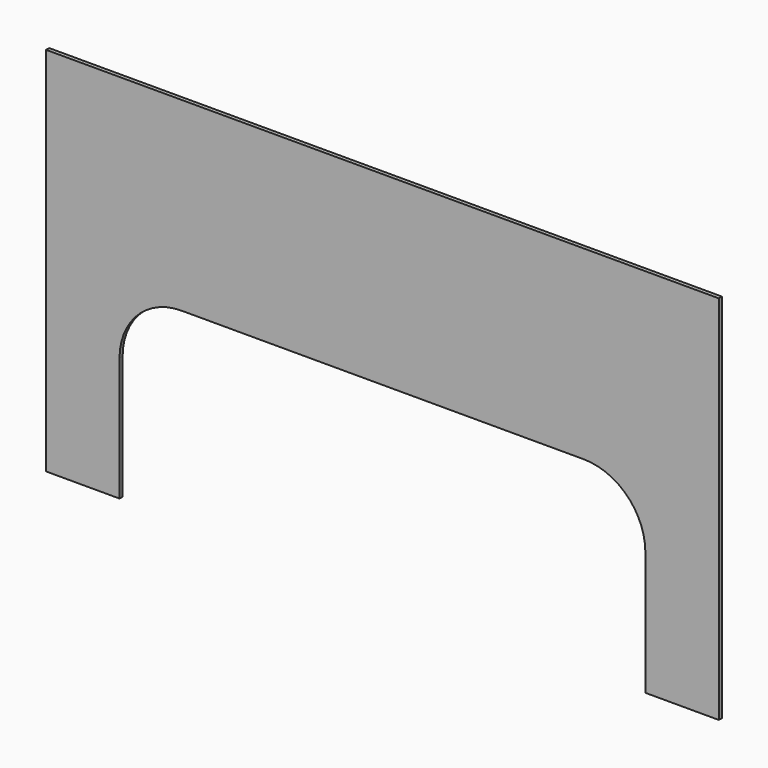
from build123d import *

# Parameters (mm, degrees)
F0_W     = 552.45
F0_H     = 304.8
F1_DEPTH = 3.175
F2_W     = 431.8
F2_H     = 152.4
F3_DEPTH = 3.176
F4_R     = 50.8


with BuildPart() as f1:
    # F0 (on Front) → F1 (new body)
    with BuildSketch(Plane.XZ):
        Rectangle(F0_W, F0_H)
    extrude(amount=F1_DEPTH)

    # F2 (on face) → F3 (cut, through all)
    with BuildSketch(Plane.XZ.offset(3.175)):
        with Locations((0, -76.2)):
            Rectangle(F2_W, F2_H)
    extrude(amount=-F3_DEPTH, mode=Mode.SUBTRACT)

    # F4
    f4_edges = [f1.edges().sort_by_distance(p)[0] for p in [
        (-215.9, -1.5875, 0),
        (215.9, -1.5875, 0),
    ]]
    fillet(f4_edges, radius=F4_R)


solid = f1.part
